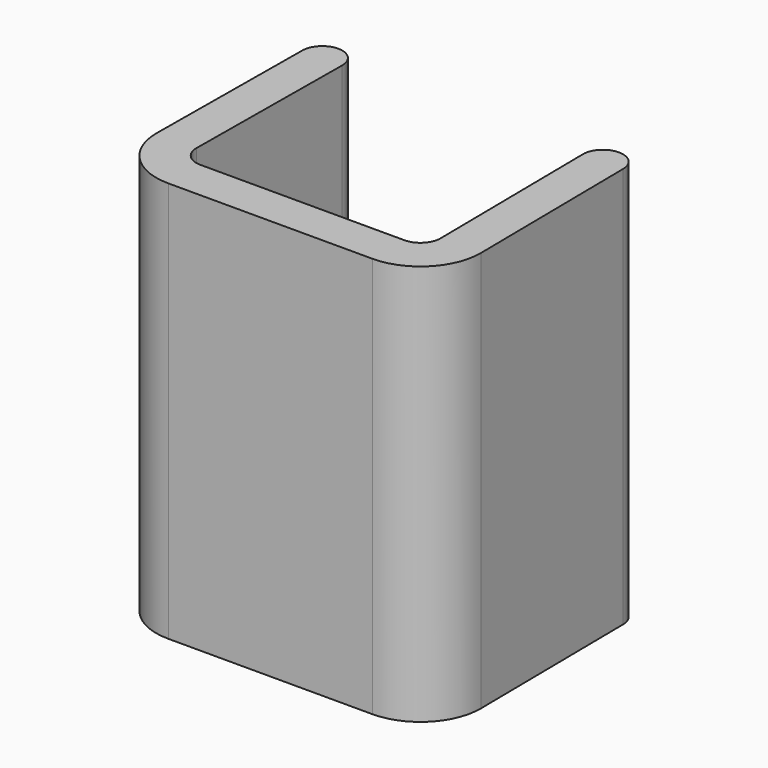
from build123d import *

# Parameters (mm, degrees)
F1_DEPTH = 20


with BuildPart() as f1:
    # F0 (on Top) → F1 (new body)
    with BuildSketch(Plane.XY):
        with BuildLine():
            ThreePointArc((2.099931, 11.999654), (1.108287, 13.007941), (0.1, 12.016297))
            Line((0.1, 12.016297), (0.025174, 3.024965))
            ThreePointArc((0.025174, 3.024965), (0.894941, 0.887525), (3.02507, 0))
            Line((3.02507, 0), (13.204962, 0))
            ThreePointArc((13.204962, 0), (15.338637, 0.891106), (16.204758, 3.035045))
            Line((16.204758, 3.035045), (16.099794, 12.019657))
            ThreePointArc((16.099794, 12.019657), (15.088181, 13.007907), (14.099931, 11.996294))
            Line((14.099931, 11.996294), (14.204894, 3.011682))
            ThreePointArc((14.204894, 3.011682), (13.916187, 2.297035), (13.204962, 2))
            Line((13.204962, 2), (3.02507, 2))
            ThreePointArc((3.02507, 2), (2.315027, 2.295842), (2.025105, 3.008322))
            Line((2.025105, 3.008322), (2.099931, 11.999654))
        make_face()
    extrude(amount=F1_DEPTH)


solid = f1.part
